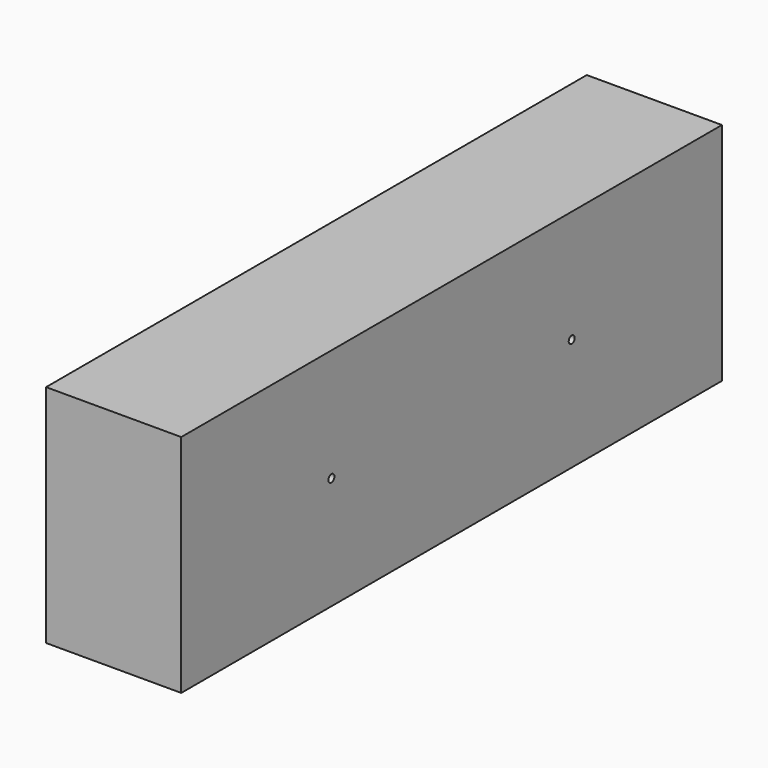
from build123d import *

# Parameters (mm, degrees)
F0_W     = 90
F0_H     = 150
F1_DEPTH = 450
F3_D     = 5
F3_DEPTH = 25
F3_TIP   = 1.5021515476


with BuildPart() as f1:
    # F0 (on Front) → F1 (new body)
    with BuildSketch(Plane.XZ):
        with Locations((76.7567627877, 96.0923777666)):
            Rectangle(F0_W, F0_H)
    extrude(amount=-F1_DEPTH)

    # F3
    with Locations(Plane.YZ.offset(121.7567627877)):
        with Locations((325, 96.0923777666), (125, 96.0923777666)):
            Hole(F3_D / 2, depth=F3_DEPTH)
            with Locations((0, 0, -(F3_DEPTH + F3_TIP / 2))):  # 118° drill point
                Cone(0, F3_D / 2, F3_TIP, mode=Mode.SUBTRACT)


solid = f1.part
